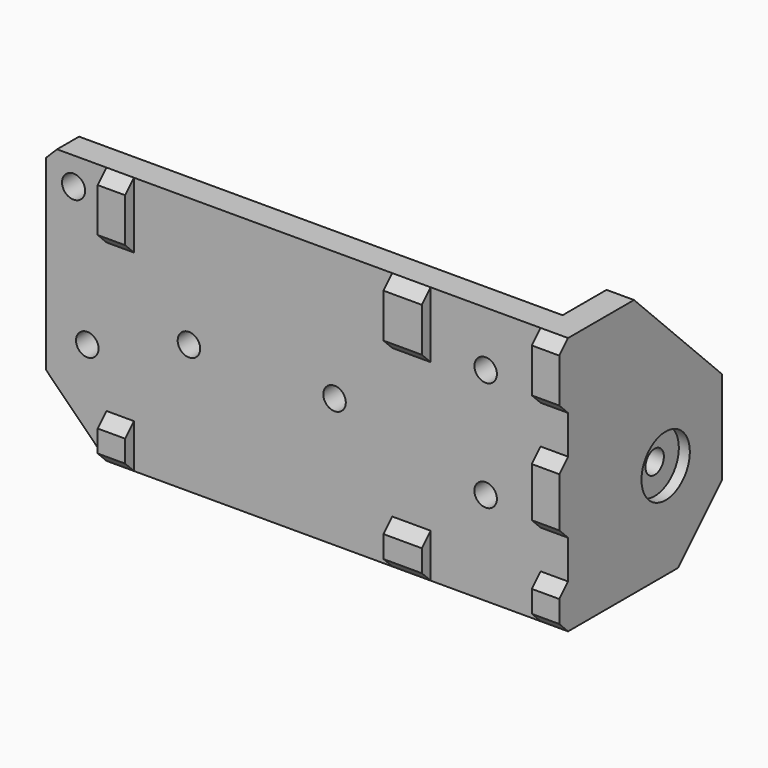
from build123d import *

# Parameters (mm, degrees)
CYLINDER019_R                   = 2.05
CYLINDER019_DEPTH               = 10
BOX035_W                        = 13
BOX035_H                        = 5
BOX035_DEPTH                    = 13
CYLINDER014_R                   = 2.1
CYLINDER014_DEPTH               = 10
CYLINDER012_R                   = 2.05
CYLINDER012_DEPTH               = 10
CYLINDER011_R                   = 2.05
CYLINDER011_DEPTH               = 10
CYLINDER010_R                   = 2.05
CYLINDER010_DEPTH               = 10
CYLINDER013_R                   = 2.05
CYLINDER013_DEPTH               = 10
CYLINDER007_R                   = 5.5
CYLINDER007_DEPTH               = 3
CYLINDER006_R                   = 2.1
CYLINDER006_DEPTH               = 41
CYLINDER008_R                   = 2.1
CYLINDER008_DEPTH               = 10
CYLINDER009_R                   = 5.5
CYLINDER009_DEPTH               = 2
BOX019_W                        = 5
BOX019_H                        = 47
BOX019_DEPTH                    = 35
BOX021_W                        = 5
BOX021_H                        = 13
BOX021_DEPTH                    = 3
BOX022_W                        = 5
BOX022_H                        = 12
BOX022_DEPTH                    = 3
BOX023_W                        = 7
BOX023_H                        = 8
BOX023_DEPTH                    = 3
BOX024_W                        = 7
BOX024_H                        = 12
BOX024_DEPTH                    = 3
BOX025_W                        = 5
BOX025_H                        = 12
BOX025_DEPTH                    = 3
BOX026_W                        = 5
BOX026_H                        = 8
BOX026_DEPTH                    = 3
BOX020_W                        = 5
BOX020_H                        = 8
BOX020_DEPTH                    = 3
CHAMFER003001007_SIZE           = 2
BOX018_W                        = 95
BOX018_H                        = 47
BOX018_DEPTH                    = 5
CHAMFER003001008_SIZE           = 10
CHAMFER003001009_SIZE           = 20
CHAMFER003001010_SIZE           = 10.99
CHAMFER003001011_SIZE           = 2
CUT003023001008_PLACEMENT_ANGLE = 90


with BuildPart() as cylinder019:
    # Cylinder019 → Cylinder019 (new body)
    with BuildSketch(Plane(origin=(59.5, 11, 87.5), x_dir=(1, 0, 0), z_dir=(0, -1, 0))):
        Circle(CYLINDER019_R)
    extrude(amount=CYLINDER019_DEPTH)


with BuildPart() as cube035:
    # Box035 → Box035 (new body)
    with BuildSketch(Plane(origin=(53, 5, 81), x_dir=(1, 0, 0), z_dir=(0, 0, 1))):
        with Locations((6.5, 2.5)):
            Rectangle(BOX035_W, BOX035_H)
    extrude(amount=BOX035_DEPTH)


with BuildPart() as cylinder014:
    # Cylinder014 → Cylinder014 (new body)
    with BuildSketch(Plane(origin=(30, 57, 26.5), x_dir=(1, 0, 0), z_dir=(0, 0, 1))):
        Circle(CYLINDER014_R)
    extrude(amount=CYLINDER014_DEPTH)


with BuildPart() as cylinder012:
    # Cylinder012 → Cylinder012 (new body)
    with BuildSketch(Plane(origin=(105, 52, 29), x_dir=(1, 0, 0), z_dir=(0, 0, 1))):
        Circle(CYLINDER012_R)
    extrude(amount=CYLINDER012_DEPTH)


with BuildPart() as cylinder011:
    # Cylinder011 → Cylinder011 (new body)
    with BuildSketch(Plane(origin=(77.5, 38.5, 29), x_dir=(1, 0, 0), z_dir=(0, 0, 1))):
        Circle(CYLINDER011_R)
    extrude(amount=CYLINDER011_DEPTH)


with BuildPart() as cylinder010:
    # Cylinder010 → Cylinder010 (new body)
    with BuildSketch(Plane(origin=(51, 38.5, 29), x_dir=(1, 0, 0), z_dir=(0, 0, 1))):
        Circle(CYLINDER010_R)
    extrude(amount=CYLINDER010_DEPTH)


with BuildPart() as fusion003010:
    # Cylinder013 → Cylinder013 (new body)
    with BuildSketch(Plane(origin=(105, 32, 29), x_dir=(1, 0, 0), z_dir=(0, 0, 1))):
        Circle(CYLINDER013_R)
    extrude(amount=CYLINDER013_DEPTH)

    # Fusion003010: union Cylinder012, Cylinder011, Cylinder010
    add(cylinder012.part)
    add(cylinder011.part)
    add(cylinder010.part)


with BuildPart() as cylinder007:
    # Cylinder007 → Cylinder007 (new body)
    with BuildSketch(Plane(origin=(32.5, 32.5, 32), x_dir=(1, 0, 0), z_dir=(0, 0, 1))):
        Circle(CYLINDER007_R)
    extrude(amount=CYLINDER007_DEPTH)


with BuildPart() as fusion003008:
    # Cylinder006 → Cylinder006 (new body)
    with BuildSketch(Plane(origin=(32.5, 32.5, 0), x_dir=(1, 0, 0), z_dir=(0, 0, 1))):
        Circle(CYLINDER006_R)
    extrude(amount=CYLINDER006_DEPTH)

    # Fusion003008: union Cylinder007
    add(cylinder007.part)


with BuildPart() as cylinder008:
    # Cylinder008 → Cylinder008 (new body)
    with BuildSketch(Plane(origin=(114, 32.5, 12.8), x_dir=(0, 0, -1), z_dir=(1, 0, 0))):
        Circle(CYLINDER008_R)
    extrude(amount=CYLINDER008_DEPTH)


with BuildPart() as fusion003009:
    # Cylinder009 → Cylinder009 (new body)
    with BuildSketch(Plane(origin=(118, 32.5, 12.8), x_dir=(0, 0, -1), z_dir=(1, 0, 0))):
        Circle(CYLINDER009_R)
    extrude(amount=CYLINDER009_DEPTH)

    # Fusion003007: union Cylinder008
    add(cylinder008.part)

    # Fusion003009: union Fusion003008
    add(fusion003008.part)


with BuildPart() as cube019:
    # Box019 → Box019 (new body)
    with BuildSketch(Plane(origin=(115, 15, 0), x_dir=(1, 0, 0), z_dir=(0, 0, 1))):
        with Locations((2.5, 23.5)):
            Rectangle(BOX019_W, BOX019_H)
    extrude(amount=BOX019_DEPTH)


with BuildPart() as cube021:
    # Box021 → Box021 (new body)
    with BuildSketch(Plane(origin=(115, 30, 35), x_dir=(1, 0, 0), z_dir=(0, 0, 1))):
        with Locations((2.5, 6.5)):
            Rectangle(BOX021_W, BOX021_H)
    extrude(amount=BOX021_DEPTH)


with BuildPart() as cube022:
    # Box022 → Box022 (new body)
    with BuildSketch(Plane(origin=(115, 50, 35), x_dir=(1, 0, 0), z_dir=(0, 0, 1))):
        with Locations((2.5, 6)):
            Rectangle(BOX022_W, BOX022_H)
    extrude(amount=BOX022_DEPTH)


with BuildPart() as cube023:
    # Box023 → Box023 (new body)
    with BuildSketch(Plane(origin=(88, 15, 35), x_dir=(1, 0, 0), z_dir=(0, 0, 1))):
        with Locations((3.5, 4)):
            Rectangle(BOX023_W, BOX023_H)
    extrude(amount=BOX023_DEPTH)


with BuildPart() as cube024:
    # Box024 → Box024 (new body)
    with BuildSketch(Plane(origin=(88, 50, 35), x_dir=(1, 0, 0), z_dir=(0, 0, 1))):
        with Locations((3.5, 6)):
            Rectangle(BOX024_W, BOX024_H)
    extrude(amount=BOX024_DEPTH)


with BuildPart() as cube025:
    # Box025 → Box025 (new body)
    with BuildSketch(Plane(origin=(36, 50, 35), x_dir=(1, 0, 0), z_dir=(0, 0, 1))):
        with Locations((2.5, 6)):
            Rectangle(BOX025_W, BOX025_H)
    extrude(amount=BOX025_DEPTH)


with BuildPart() as cube026:
    # Box026 → Box026 (new body)
    with BuildSketch(Plane(origin=(36, 15, 35), x_dir=(1, 0, 0), z_dir=(0, 0, 1))):
        with Locations((2.5, 4)):
            Rectangle(BOX026_W, BOX026_H)
    extrude(amount=BOX026_DEPTH)


with BuildPart() as chamfer003001007:
    # Box020 → Box020 (new body)
    with BuildSketch(Plane(origin=(115, 15, 35), x_dir=(1, 0, 0), z_dir=(0, 0, 1))):
        with Locations((2.5, 4)):
            Rectangle(BOX020_W, BOX020_H)
    extrude(amount=BOX020_DEPTH)

    # Fusion003004: union Cube021, Cube022, Cube023, Cube024, Cube025, Cube026
    add(cube021.part)
    add(cube022.part)
    add(cube023.part)
    add(cube024.part)
    add(cube025.part)
    add(cube026.part)


with BuildPart() as chamfer003001007_1:
    # Fusion003004 placement: moved
    add(chamfer003001007.part.moved(Location((0, 0, -1))))

    # Chamfer003001007
    chamfer003001007_edges = [chamfer003001007_1.edges().sort_by_distance(p)[0] for p in [
        (117.5, 15, 37),
        (117.5, 23, 37),
        (117.5, 30, 37),
        (117.5, 43, 37),
        (117.5, 50, 37),
        (117.5, 62, 37),
        (91.5, 15, 37),
        (91.5, 23, 37),
        (91.5, 50, 37),
        (91.5, 62, 37),
        (38.5, 50, 37),
        (38.5, 62, 37),
        (38.5, 15, 37),
        (38.5, 23, 37),
    ]]
    chamfer(chamfer003001007_edges, length=CHAMFER003001007_SIZE)


with BuildPart() as block_mount:
    # Box018 → Box018 (new body)
    with BuildSketch(Plane(origin=(25, 15, 30), x_dir=(1, 0, 0), z_dir=(0, 0, 1))):
        with Locations((47.5, 23.5)):
            Rectangle(BOX018_W, BOX018_H)
    extrude(amount=BOX018_DEPTH)

    # Fusion003005: union Cube019, Chamfer003001007
    add(cube019.part)
    add(chamfer003001007_1.part)

    # Cut003023001006: cut Fusion003009
    add(fusion003009.part, mode=Mode.SUBTRACT)

    # Chamfer003001008
    chamfer003001008_edges = [block_mount.edges().sort_by_distance(p)[0] for p in [
        (117.5, 15, 0),
    ]]
    chamfer(chamfer003001008_edges, length=CHAMFER003001008_SIZE)

    # Chamfer003001009
    chamfer003001009_edges = [block_mount.edges().sort_by_distance(p)[0] for p in [
        (117.5, 62, 0),
    ]]
    chamfer(chamfer003001009_edges, length=CHAMFER003001009_SIZE)

    # Chamfer003001010
    chamfer003001010_edges = [block_mount.edges().sort_by_distance(p)[0] for p in [
        (25, 15, 32.5),
    ]]
    chamfer(chamfer003001010_edges, length=CHAMFER003001010_SIZE)

    # Cut003023001007: cut Fusion003010
    add(fusion003010.part, mode=Mode.SUBTRACT)

    # Chamfer003001011
    chamfer003001011_edges = [block_mount.edges().sort_by_distance(p)[0] for p in [
        (25, 62, 32.5),
    ]]
    chamfer(chamfer003001011_edges, length=CHAMFER003001011_SIZE)

    # Cut003023001008: cut Cylinder014
    add(cylinder014.part, mode=Mode.SUBTRACT)


with BuildPart() as block_mount_1:
    # Cut003023001008 placement: moved
    add(block_mount.part.moved(Location((27, 40, 55))).rotate(Axis((27, 40, 55), (1, 0, 0)), CUT003023001008_PLACEMENT_ANGLE))

    # Fusion003015: union Cube035
    add(cube035.part)

    # Cut003023001012: cut Cylinder019
    add(cylinder019.part, mode=Mode.SUBTRACT)


solid = block_mount_1.part
